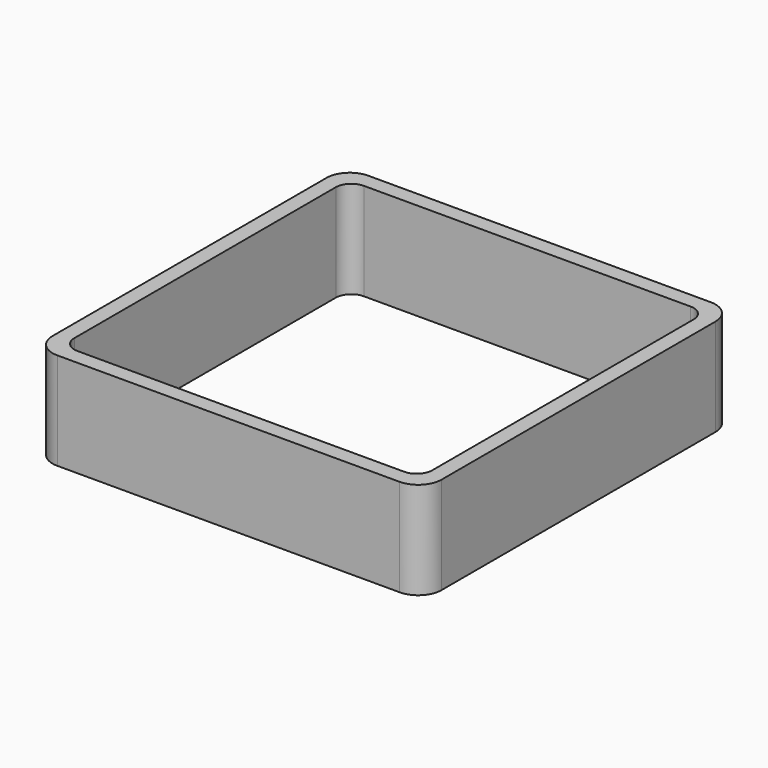
from build123d import *

# Parameters (mm, degrees)
EXTRUDE_DEPTH = 50


with BuildPart() as part:
    # Sketch → Extrude (new body)
    with BuildSketch(Plane.XY):
        with BuildLine():
            Line((-88, 100), (88, 100))
            ThreePointArc((100, 88), (96.485281, 96.485281), (88, 100))
            Line((100, 88), (100, -88))
            ThreePointArc((88, -100), (96.485281, -96.485281), (100, -88))
            Line((88, -100), (-88, -100))
            ThreePointArc((-100, -88), (-96.485281, -96.485281), (-88, -100))
            Line((-100, -88), (-100, 88))
            ThreePointArc((-88, 100), (-96.485281, 96.485281), (-100, 88))
        make_face()
        with BuildLine():
            Line((-84, 92), (84, 92))
            ThreePointArc((92, 84), (89.656854, 89.656854), (84, 92))
            Line((92, 84), (92, -84))
            ThreePointArc((84, -92), (89.656854, -89.656854), (92, -84))
            Line((84, -92), (-84, -92))
            ThreePointArc((-92, -84), (-89.656854, -89.656854), (-84, -92))
            Line((-92, -84), (-92, 84))
            ThreePointArc((-84, 92), (-89.656854, 89.656854), (-92, 84))
        make_face(mode=Mode.SUBTRACT)
    extrude(amount=EXTRUDE_DEPTH)


solid = part.part
